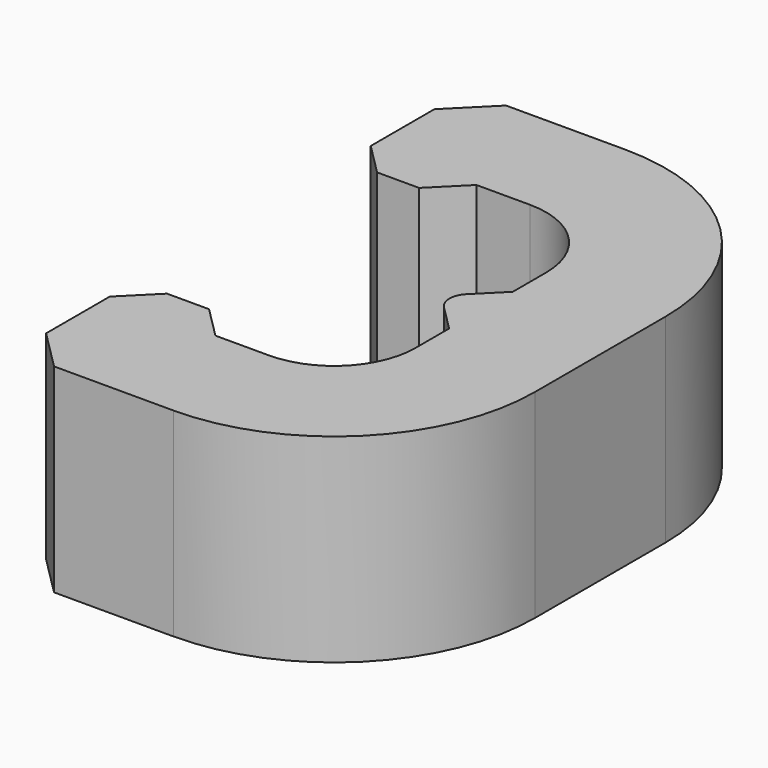
from build123d import *

# Parameters (mm, degrees)
F1_DEPTH = 5
F2_SIZE  = 1
F3_R     = 0.5


with BuildPart() as f1:
    # F0 (on Top) → F1 (new body)
    with BuildSketch(Plane.XY):
        with BuildLine():
            ThreePointArc((0, 8.2), (1.449569, 7.599569), (2.05, 6.15))
            Line((2.05, 6.15), (2.05, 5.1))
            Line((2.05, 5.1), (2.05, 4.1))
            Line((2.05, 4.1), (2.05, 3.1))
            Line((2.05, 3.1), (2.05, 2.05))
            ThreePointArc((2.05, 2.05), (1.449569, 0.600431), (0, 0))
            Line((0, 0), (-1.344113, 0))
            Line((-1.344113, 0), (-4, 0))
            Line((-4, 0), (-4, -3))
            Line((-4, -3), (0, -3))
            ThreePointArc((0, -3), (3.570889, -1.520889), (5.05, 2.05))
            Line((5.05, 2.05), (5.05, 6.15))
            ThreePointArc((5.05, 6.15), (3.570889, 9.720889), (0, 11.2))
            Line((0, 11.2), (-4, 11.2))
            Line((-4, 11.2), (-4, 8.2))
            Line((-4, 8.2), (-1.344113, 8.2))
            Line((-1.344113, 8.2), (0, 8.2))
        make_face()
        Polygon((-2.144113, 7.4), (-1.344113, 8.2), (-4, 8.2), (-3.2, 7.4), align=None)
        Polygon((-3.2, 0.8), (-4, 0), (-1.344113, 0), (-2.144113, 0.8), align=None)
        Polygon((2.05, 4.1), (2.05, 5.1), (1.05, 4.1), align=None)
        Polygon((2.05, 3.1), (2.05, 4.1), (1.05, 4.1), align=None)
    extrude(amount=F1_DEPTH)

    # F2
    f2_edges = [f1.edges().sort_by_distance(p)[0] for p in [
        (-4, 11.2, 2.5),
        (-4, -3, 2.5),
    ]]
    chamfer(f2_edges, length=F2_SIZE)

    # F3
    f3_edges = [f1.edges().sort_by_distance(p)[0] for p in [
        (1.05, 4.1, 2.5),
    ]]
    fillet(f3_edges, radius=F3_R)


solid = f1.part
